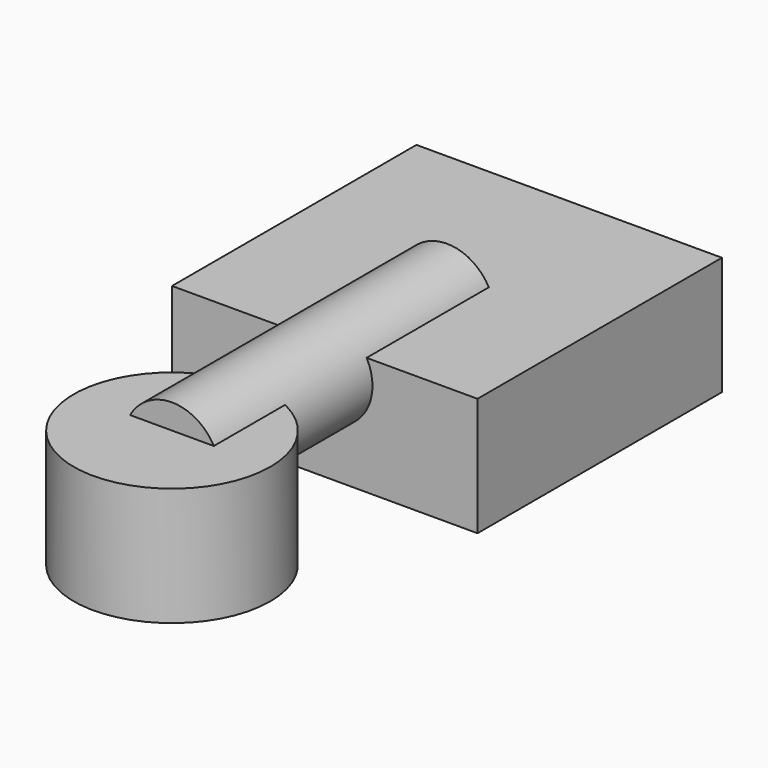
from build123d import *

# Parameters (mm, degrees)
F0_W     = 80
F0_H     = 80
F1_DEPTH = 31
F5_R     = 25.75
F6_DEPTH = 31
F8_R     = 12.5
F9_DEPTH = 90


with BuildPart() as f1:
    # F0 (on Top) → F1 (new body)
    with BuildSketch(Plane.XY):
        with Locations((-20.1196231321, 18.3466067165)):
            Rectangle(F0_W, F0_H)
    extrude(amount=F1_DEPTH)


with BuildPart() as f1_1:
    # F3: moved
    add(f1.part.moved(Location((-19.8772903532, 21.6590519994, 0))))


with BuildPart() as f1_2:
    # F4: moved
    add(f1_1.part.moved(Location((40, -40, 0))))


with BuildPart() as f6:
    # F5 (on Top) → F6 (new body)
    with BuildSketch(Plane.XY):
        with Locations((0, -79.9916088581)):
            Circle(F5_R)
    extrude(amount=F6_DEPTH)


with BuildPart() as f6_1:
    # F7: moved
    add(f6.part.moved(Location((0, -10, 0))))


with BuildPart() as f9:
    # F8 (on Front) → F9 (new body)
    with BuildSketch(Plane.XZ):
        Circle(F8_R)
    extrude(amount=F9_DEPTH)


with BuildPart() as f9_1:
    # F10: moved
    add(f9.part.moved(Location((0, 0, 25))))


solid = Compound([f1_2.part, f6_1.part, f9_1.part])
